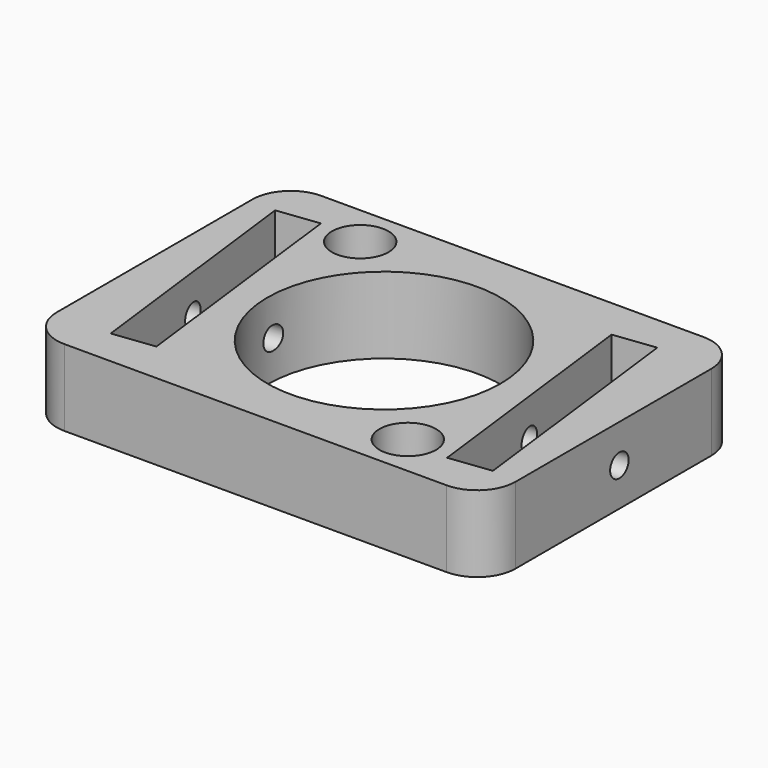
from build123d import *

# Parameters (mm, degrees)
F0_R     = 3.7
F0_R_2   = 15.25
F1_DEPTH = 10
F2_R     = 1.5
F3_DEPTH = 12.5
F4_R     = 1.5
F5_DEPTH = 12.5


with BuildPart() as f1:
    # F0 (on Top) → F1 (new body)
    with BuildSketch(Plane.XY):
        with BuildLine():
            Line((25, 21), (0, 21))
            Line((0, 21), (-25, 21))
            ThreePointArc((-25, 21), (-28.5355339059, 19.5355339059), (-30, 16))
            Line((-30, 16), (-30, 0))
            Line((-30, 0), (-30, -16))
            ThreePointArc((-30, -16), (-28.5355339059, -19.5355339059), (-25, -21))
            Line((-25, -21), (0, -21))
            Line((0, -21), (25, -21))
            ThreePointArc((25, -21), (28.5355339059, -19.5355339059), (30, -16))
            Line((30, -16), (30, 0))
            Line((30, 0), (30, 16))
            ThreePointArc((30, 16), (28.5355339059, 19.5355339059), (25, 21))
        make_face()
        with Locations((15.5563491861, -15.5563491861)):
            Circle(F0_R, mode=Mode.SUBTRACT)
        Polygon((22.7795924225, 16.2158791206), (24.729501917, 0.3351406944), (26.6794114115, -15.5455977319), (21.2204075775, -16.2158791206), (17.3205885885, 15.5455977319), align=None, mode=Mode.SUBTRACT)
        Polygon((-21.2204075775, 16.2158791206), (-19.270498083, 0.3351406944), (-17.3205885885, -15.5455977319), (-22.7795924225, -16.2158791206), (-24.729501917, -0.3351406944), (-26.6794114115, 15.5455977319), align=None, mode=Mode.SUBTRACT)
        with Locations((-15.5563491861, 15.5563491861)):
            Circle(F0_R, mode=Mode.SUBTRACT)
        Circle(F0_R_2, mode=Mode.SUBTRACT)
    extrude(amount=F1_DEPTH)

    # F2 (on face) → F3 (cut, symmetric)
    with BuildSketch(Plane(origin=(-18.943751072, -2.3260001572, 0), x_dir=(0.1218693434, -0.9925461516, 0), z_dir=(-0.9925461516, -0.1218693434, 0))):
        with Locations((-2.6811255549, 5)):
            Circle(F2_R)
    extrude(amount=F3_DEPTH, both=True, mode=Mode.SUBTRACT)

    # F4 (on face) → F5 (cut, symmetric)
    with BuildSketch(Plane(origin=(18.943751072, 2.3260001572, 0), x_dir=(-0.1218693434, 0.9925461516, 0), z_dir=(0.9925461516, 0.1218693434, 0))):
        with Locations((-2.6811255549, 5)):
            Circle(F4_R)
    extrude(amount=F5_DEPTH, both=True, mode=Mode.SUBTRACT)


solid = f1.part
